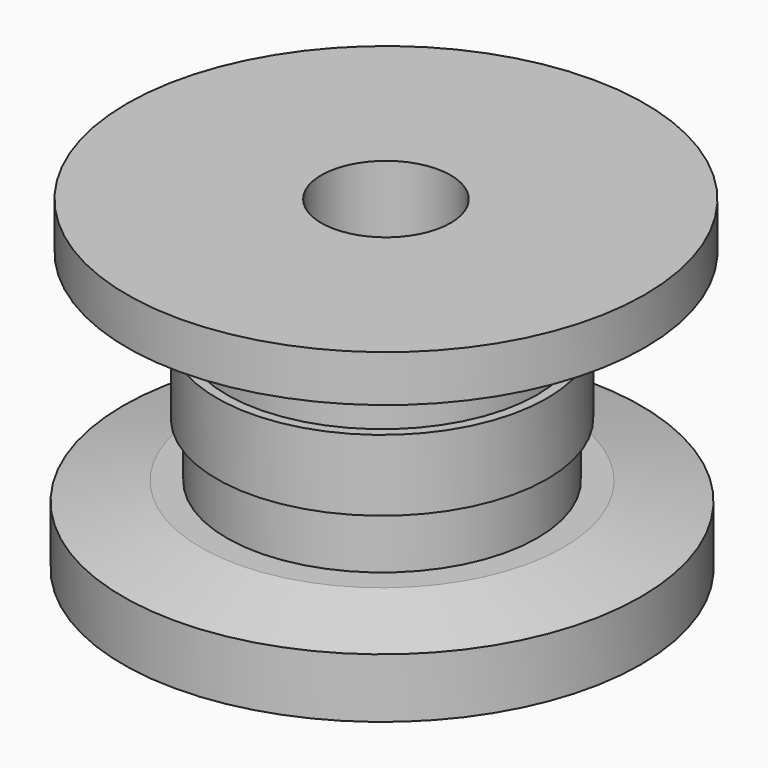
from build123d import *

# Parameters (mm, degrees)
F0_R      = 20
F1_DEPTH  = 6
F2_R      = 12
F3_DEPTH  = 4.25
F4_R      = 12.75
F5_DEPTH  = 5.5
F6_R      = 12
F8_DEPTH  = 4.25
F10_R     = 20
F11_DEPTH = 5
F12_R     = 5
F13_DEPTH = 25.001
F14_SIZE2 = 1.4
F14_SIZE  = 6
F15_SIZE2 = 6
F15_SIZE  = 1.4


with BuildPart() as f1:
    # F0 (on Top) → F1 (new body)
    with BuildSketch(Plane.XY):
        with Locations((-4.7043012455, 29.0725808591)):
            Circle(F0_R)
    extrude(amount=F1_DEPTH)

    # F2 (on face) → F3 (join)
    with BuildSketch(Plane.XY.offset(6)):
        with Locations((-4.7043012455, 29.0725808591)):
            Circle(F2_R)
    extrude(amount=F3_DEPTH)

    # F4 (on face) → F5 (join)
    with BuildSketch(Plane.XY.offset(10.25)):
        with Locations((-4.7043012455, 29.0725808591)):
            Circle(F4_R)
    extrude(amount=F5_DEPTH)

    # F6 (on face) → F8 (join)
    with BuildSketch(Plane.XY.offset(15.75)):
        with Locations((-4.7043012455, 29.0725808591)):
            Circle(F6_R)
    extrude(amount=F8_DEPTH)

    # F10 (on face) → F11 (join)
    with BuildSketch(Plane.XY.offset(20)):
        with Locations((-4.7043012455, 29.4489245862)):
            Circle(F10_R)
    extrude(amount=F11_DEPTH)

    # F12 (on face) → F13 (cut, through all)
    with BuildSketch(Plane.XY.offset(25)):
        with Locations((-4.7043012455, 29.4489245862)):
            Circle(F12_R)
    extrude(amount=-F13_DEPTH, mode=Mode.SUBTRACT)

    # F14
    f14_edges = [f1.edges().sort_by_distance(p)[0] for p in [
        (-24.704301, 29.072581, 6),
    ]]
    f14_side = f1.faces().sort_by_distance((-24.138616, 29.072581, 6))[0]
    chamfer(f14_edges, length=F14_SIZE, length2=F14_SIZE2, reference=f14_side)

    # F15
    f15_edges = [f1.edges().sort_by_distance(p)[0] for p in [
        (-24.704301, 29.448925, 20),
    ]]
    f15_side = f1.faces().sort_by_distance((-24.704301, 29.448925, 22.5))[0]
    chamfer(f15_edges, length=F15_SIZE, length2=F15_SIZE2, reference=f15_side)


solid = f1.part
